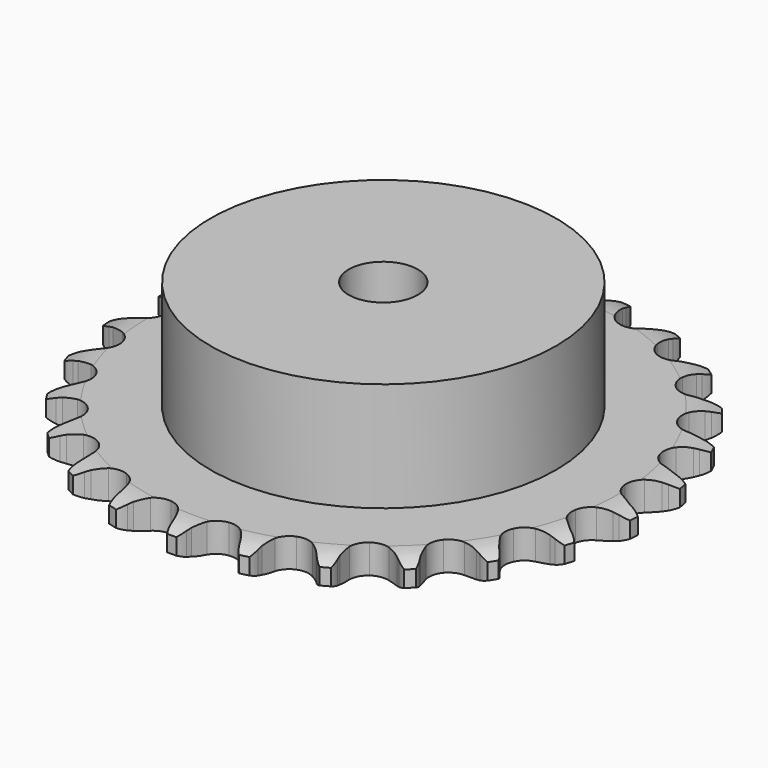
from build123d import *

# Parameters (mm, degrees)
PAD_DEPTH         = 5.9
SKETCH001_R       = 35
PAD001_DEPTH      = 28
SKETCH002_R       = 7
POCKET_DEPTH      = 0.0010001
POCKET_DEPTH_BACK = 28.001


with BuildPart() as part:
    # Sprocket → Pad (new body)
    with BuildSketch(Plane.XY):
        with BuildLine():
            ThreePointArc((-6.8599742768, 54.3022878853), (-5.6877263888, 53.1055977834), (-4.8697172128, 51.6437177271))
            Line((-4.8697172128, 51.6437177271), (-4.4929600157, 50.6940751819))
            ThreePointArc((-4.4929600157, 50.6940751819), (-3.8917444923, 49.438116684), (-3.1240156349, 48.2764436425))
            ThreePointArc((-3.1240156349, 48.2764436425), (-1.7423663811, 47.1395234725), (0, 46.7324589478))
            ThreePointArc((0, 46.7324589478), (1.7423663811, 47.1395234725), (3.1240156349, 48.2764436425))
            ThreePointArc((3.1240156349, 48.2764436425), (3.8917444923, 49.438116684), (4.4929600157, 50.6940751819))
            Line((4.4929600157, 50.6940751819), (4.8697172128, 51.6437177271))
            ThreePointArc((4.8697172128, 51.6437177271), (5.6877263888, 53.1055977834), (6.8599742768, 54.3022878853))
            ThreePointArc((6.8599742768, 54.3022878853), (7.6977891152, 52.8516678085), (8.1265442425, 51.2322847927))
            Line((8.1265442425, 51.2322847927), (8.2552984221, 50.2187813095))
            ThreePointArc((8.2552984221, 50.2187813095), (8.5252814772, 48.8527648367), (8.9799943831, 47.536661487))
            ThreePointArc((8.9799943831, 47.536661487), (10.0354960361, 46.0918575578), (11.6218899427, 45.264272815))
            ThreePointArc((11.6218899427, 45.264272815), (13.4107495107, 45.2252397603), (15.0317322612, 45.9828392955))
            Line((15.0317322612, 45.9828392955), (16.9589092518, 47.9840738708))
            ThreePointArc((16.9589092518, 47.9840738708), (17.2490341894, 48.4047106183), (17.5599964261, 48.8101859444))
            ThreePointArc((17.5599964261, 48.8101859444), (18.7158611259, 50.0227077408), (20.1488854172, 50.8902754276))
            ThreePointArc((20.1488854172, 50.8902754276), (20.5996242187, 49.2768731704), (20.6121850358, 47.6017389857))
            Line((20.6121850358, 47.6017389857), (20.4848460991, 46.5880567157))
            ThreePointArc((20.4848460991, 46.5880567157), (20.4066326576, 45.1978141068), (20.5197583279, 43.8099760627))
            ThreePointArc((20.5197583279, 43.8099760627), (21.1827913294, 42.1480707188), (22.5135337979, 40.9519659508))
            ThreePointArc((22.5135337979, 40.9519659508), (24.2364859271, 40.4692879073), (25.9949498667, 40.7999640426))
            Line((25.9949498667, 40.7999640426), (28.359267849, 42.2590567254))
            ThreePointArc((28.359267849, 42.2590567254), (28.7448860835, 42.5943272579), (29.1469164828, 42.9097306674))
            ThreePointArc((29.1469164828, 42.9097306674), (30.5680094763, 43.7967070002), (32.1717679845, 44.2806398035))
            ThreePointArc((32.1717679845, 44.2806398035), (32.2071091724, 42.6058313633), (31.8026864369, 40.9802008512))
            Line((31.8026864369, 40.9802008512), (31.4272555578, 40.0300331795))
            ThreePointArc((31.4272555578, 40.0300331795), (31.0057600578, 38.7029184907), (30.7701903906, 37.3305487206))
            ThreePointArc((30.7701903906, 37.3305487206), (30.9990939386, 35.5559655867), (31.9905695256, 34.0664964552))
            ThreePointArc((31.9905695256, 34.0664964552), (33.5393547973, 33.1705018594), (35.3248091694, 33.0534769971))
            Line((35.3248091694, 33.0534769971), (37.9777093492, 33.8787476279))
            ThreePointArc((37.9777093492, 33.8787476279), (38.4345910687, 34.1075856649), (38.9024285821, 34.3130992017))
            ThreePointArc((38.9024285821, 34.3130992017), (40.49945737, 34.8187980857), (42.1731800499, 34.8886887277))
            ThreePointArc((42.1731800499, 34.8886887277), (41.7909030073, 33.2577084784), (40.9949080871, 31.7837259826))
            Line((40.9949080871, 31.7837259826), (40.3949749684, 30.9567754386))
            ThreePointArc((40.3949749684, 30.9567754386), (39.6566815224, 29.7761761663), (39.0872182262, 28.5055057102))
            ThreePointArc((39.0872182262, 28.5055057102), (38.867609469, 26.7297483711), (39.457520117, 25.0405036995))
            ThreePointArc((39.457520117, 25.0405036995), (40.7348226564, 23.787491187), (42.4350807964, 23.2301184297))
            Line((42.4350807964, 23.2301184297), (45.2098716987, 23.3697122197))
            ThreePointArc((45.2098716987, 23.3697122197), (45.7093093444, 23.4777390257), (46.2135580203, 23.5604495184))
            ThreePointArc((46.2135580203, 23.5604495184), (47.8861754106, 23.653096033), (49.5246961106, 23.3045530275))
            ThreePointArc((49.5246961106, 23.3045530275), (48.7488207101, 21.8198814565), (47.6112688935, 20.5901627182))
            Line((47.6112688935, 20.5901627182), (46.8245295394, 19.9383896457))
            ThreePointArc((46.8245295394, 19.9383896457), (45.8158278398, 18.9784871844), (44.9482523879, 17.8893569401))
            ThreePointArc((44.9482523879, 17.8893569401), (44.2939301514, 16.2240027603), (44.4452096048, 14.4411240038))
            ThreePointArc((44.4452096048, 14.4411240038), (45.3707717957, 12.9098249592), (46.8790002316, 11.9471260869))
            Line((46.8790002316, 11.9471260869), (49.6013315392, 11.3922718449))
            ThreePointArc((49.6013315392, 11.3922718449), (50.111943607, 11.3726996984), (50.6209196466, 11.3274101426))
            ThreePointArc((50.6209196466, 11.3274101426), (52.2640289371, 11.0011829665), (53.7643933756, 10.2561065525))
            ThreePointArc((53.7643933756, 10.2561065525), (52.6436707221, 9.0110310348), (51.2360385733, 8.1028438048))
            Line((51.2360385733, 8.1028438048), (50.3119267108, 7.6672015032))
            ThreePointArc((50.3119267108, 7.6672015032), (49.0961971953, 6.9883100546), (47.9850225439, 6.149154081))
            ThreePointArc((47.9850225439, 6.149154081), (46.9371003006, 4.6988433883), (46.6402431151, 2.9343553762))
            ThreePointArc((46.6402431151, 2.9343553762), (47.1559084812, 1.2209869501), (48.3773396734, -0.0865481263))
            Line((48.3773396734, -0.0865481263), (50.8761572981, -1.3009868677))
            ThreePointArc((50.8761572981, -1.3009868677), (51.365860154, -1.4469281768), (51.8475827208, -1.6173720718))
            ThreePointArc((51.8475827208, -1.6173720718), (53.3579413118, -2.3419748853), (54.6258760732, -3.4367688166))
            ThreePointArc((54.6258760732, -3.4367688166), (53.2307252927, -4.3640156071), (51.6414595166, -4.893606585))
            Line((51.6414595166, -4.893606585), (50.6380404928, -5.0857451078))
            ThreePointArc((50.6380404928, -5.0857451078), (49.2916719178, -5.440968297), (48.006717257, -5.977422744))
            ThreePointArc((48.006717257, -5.977422744), (46.6310398154, -7.1215615949), (45.9046986196, -8.7567895915))
            ThreePointArc((45.9046986196, -8.7567895915), (45.9780660095, -10.5445701595), (46.8359529441, -12.1147842025))
            Line((46.8359529441, -12.1147842025), (48.9542469845, -13.9124997908))
            ThreePointArc((48.9542469845, -13.9124997908), (49.392270797, -14.1756402332), (49.8164714906, -14.4605288506))
            ThreePointArc((49.8164714906, -14.4605288506), (51.0991779972, -15.5379778419), (52.0550140772, -16.9136993613))
            ThreePointArc((52.0550140772, -16.9136993613), (50.4730976242, -17.4648550987), (48.8020576344, -17.5825736756))
            Line((48.8020576344, -17.5825736756), (47.7823799568, -17.5191356496))
            ThreePointArc((47.7823799568, -17.5191356496), (46.3899696116, -17.5283706001), (45.0119733684, -17.7284161146))
            ThreePointArc((45.0119733684, -17.7284161146), (43.3949796017, -18.4944926719), (42.2847930842, -19.8977132639))
            ThreePointArc((42.2847930842, -19.8977132639), (41.9112525549, -21.6475731458), (42.3516910407, -23.3818038322))
            Line((42.3516910407, -23.3818038322), (43.9563612918, -25.6498391854))
            ThreePointArc((43.9563612918, -25.6498391854), (44.3151834138, -26.0136446794), (44.6552081444, -26.3950774197))
            ThreePointArc((44.6552081444, -26.3950774197), (45.6296653993, -27.757672506), (46.2133441017, -29.327879971))
            ThreePointArc((46.2133441017, -29.327879971), (44.544059605, -29.4683135132), (42.8962429897, -29.166762998))
            Line((42.8962429897, -29.166762998), (41.9243767569, -28.8517344677))
            ThreePointArc((41.9243767569, -28.8517344677), (40.5734149043, -28.5144009136), (39.1889616507, -28.3654679002))
            ThreePointArc((39.1889616507, -28.3654679002), (37.432253224, -28.7053467562), (36.0079784868, -29.7883904333))
            ThreePointArc((36.0079784868, -29.7883904333), (35.2110009634, -31.3903794971), (35.2063166306, -33.1796587348))
            Line((35.2063166306, -33.1796587348), (36.1965357589, -35.7755048504))
            ThreePointArc((36.1965357589, -35.7755048504), (36.4536100768, -36.2171161589), (36.6880938402, -36.6711262001))
            ThreePointArc((36.6880938402, -36.6711262001), (37.2930731102, -38.2332505209), (37.4679197556, -39.8992820217))
            ThreePointArc((37.4679197556, -39.8992820217), (35.8161544992, -39.6201694128), (34.2950996365, -38.9182973334))
            Line((34.2950996365, -38.9182973334), (33.4321107783, -38.3714726999))
            ThreePointArc((33.4321107783, -38.3714726999), (32.20748332, -37.708766549), (30.9035633455, -37.2202130166))
            ThreePointArc((30.9035633455, -37.2202130166), (29.11752071, -37.1125383331), (27.4686501729, -37.8073534777))
            ThreePointArc((27.4686501729, -37.8073534777), (26.2983126845, -39.1608128589), (25.8487998669, -40.8927136529))
            Line((25.8487998669, -40.8927136529), (26.1623487627, -43.6532639726))
            ThreePointArc((26.1623487627, -43.6532639726), (26.3015223518, -44.1449330329), (26.4157316706, -44.6429932545))
            ThreePointArc((26.4157316706, -44.6429932545), (26.6132198833, -46.3064927936), (26.3682482139, -47.9636654437))
            ThreePointArc((26.3682482139, -47.9636654437), (24.8377886835, -47.2825443553), (23.5390690447, -46.2244519158))
            Line((23.5390690447, -46.2244519158), (22.8391823247, -45.4801901819))
            ThreePointArc((22.8391823247, -45.4801901819), (21.8178371079, -44.533751699), (20.6763805, -43.7362752629))
            ThreePointArc((20.6763805, -43.7362752629), (18.9732272831, -43.187812636), (17.203365546, -43.4507414574))
            ThreePointArc((17.203365546, -43.4507414574), (15.7332047011, -44.4706283254), (14.8671079422, -46.0363289793))
            Line((14.8671079422, -46.0363289793), (14.4842851754, -48.788127974))
            ThreePointArc((14.4842851754, -48.788127974), (14.4968132471, -49.2989614108), (14.4835719298, -49.8097768572))
            ThreePointArc((14.4835719298, -49.8097768572), (14.2611601746, -51.4701278207), (13.6117626612, -53.0143153678))
            ThreePointArc((13.6117626612, -53.0143153678), (12.298773258, -51.973983143), (11.3039921741, -50.6261541828))
            Line((11.3039921741, -50.6261541828), (10.8111840491, -49.7312200504))
            ThreePointArc((10.8111840491, -49.7312200504), (10.0572959499, -48.5605174461), (9.1500246252, -47.5042264837))
            ThreePointArc((9.1500246252, -47.5042264837), (7.6367762073, -46.5494378374), (5.8571301923, -46.3639595507))
            ThreePointArc((5.8571301923, -46.3639595507), (4.1795216037, -46.9861906626), (2.9512609482, -48.2873124461))
            Line((2.9512609482, -48.2873124461), (1.8961206811, -50.8574544645))
            ThreePointArc((1.8961206811, -50.8574544645), (1.7812160506, -51.3553547343), (1.6413560979, -51.8468289924))
            ThreePointArc((1.6413560979, -51.8468289924), (1.0130193231, -53.3997054229), (0, -54.7338808843))
            ThreePointArc((0, -54.7338808843), (-1.0130193231, -53.3997054229), (-1.6413560979, -51.8468289924))
            Line((-1.6413560979, -51.8468289924), (-1.8961206811, -50.8574544645))
            ThreePointArc((-1.8961206811, -50.8574544645), (-2.3351821008, -49.536047289), (-2.9512609482, -48.2873124461))
            ThreePointArc((-2.9512609482, -48.2873124461), (-4.1795216037, -46.9861906626), (-5.8571301923, -46.3639595507))
            ThreePointArc((-5.8571301923, -46.3639595507), (-7.6367762073, -46.5494378374), (-9.1500246252, -47.5042264837))
            Line((-9.1500246252, -47.5042264837), (-10.8111840491, -49.7312200504))
            ThreePointArc((-10.8111840491, -49.7312200504), (-11.0463015013, -50.1849022481), (-11.3039921741, -50.6261541828))
            ThreePointArc((-11.3039921741, -50.6261541828), (-12.298773258, -51.973983143), (-13.6117626612, -53.0143153678))
            ThreePointArc((-13.6117626612, -53.0143153678), (-14.2611601746, -51.4701278207), (-14.4835719298, -49.8097768572))
            Line((-14.4835719298, -49.8097768572), (-14.4842851754, -48.788127974))
            ThreePointArc((-14.4842851754, -48.788127974), (-14.5809320719, -47.3990450998), (-14.8671079422, -46.0363289793))
            ThreePointArc((-14.8671079422, -46.0363289793), (-15.7332047011, -44.4706283254), (-17.203365546, -43.4507414574))
            ThreePointArc((-17.203365546, -43.4507414574), (-18.9732272831, -43.187812636), (-20.6763805, -43.7362752629))
            Line((-20.6763805, -43.7362752629), (-22.8391823247, -45.4801901819))
            ThreePointArc((-22.8391823247, -45.4801901819), (-23.1797393043, -45.8611477864), (-23.5390690447, -46.2244519158))
            ThreePointArc((-23.5390690447, -46.2244519158), (-24.8377886835, -47.2825443553), (-26.3682482139, -47.9636654437))
            ThreePointArc((-26.3682482139, -47.9636654437), (-26.6132198833, -46.3064927936), (-26.4157316706, -44.6429932545))
            Line((-26.4157316706, -44.6429932545), (-26.1623487627, -43.6532639726))
            ThreePointArc((-26.1623487627, -43.6532639726), (-25.910508456, -42.2837865855), (-25.8487998669, -40.8927136529))
            ThreePointArc((-25.8487998669, -40.8927136529), (-26.2983126845, -39.1608128589), (-27.4686501729, -37.8073534777))
            ThreePointArc((-27.4686501729, -37.8073534777), (-29.11752071, -37.1125383331), (-30.9035633455, -37.2202130166))
            Line((-30.9035633455, -37.2202130166), (-33.4321107783, -38.3714726999))
            ThreePointArc((-33.4321107783, -38.3714726999), (-33.8567088378, -38.6557687439), (-34.2950996365, -38.9182973334))
            ThreePointArc((-34.2950996365, -38.9182973334), (-35.8161544992, -39.6201694128), (-37.4679197556, -39.8992820217))
            ThreePointArc((-37.4679197556, -39.8992820217), (-37.2930731102, -38.2332505209), (-36.6880938402, -36.6711262001))
            Line((-36.6880938402, -36.6711262001), (-36.1965357589, -35.7755048504))
            ThreePointArc((-36.1965357589, -35.7755048504), (-35.6120323016, -34.5116822512), (-35.2063166306, -33.1796587348))
            ThreePointArc((-35.2063166306, -33.1796587348), (-35.2110009634, -31.3903794971), (-36.0079784868, -29.7883904333))
            ThreePointArc((-36.0079784868, -29.7883904333), (-37.432253224, -28.7053467562), (-39.1889616507, -28.3654679002))
            Line((-39.1889616507, -28.3654679002), (-41.9243767569, -28.8517344677))
            ThreePointArc((-41.9243767569, -28.8517344677), (-42.4063368387, -29.0215055851), (-42.8962429897, -29.166762998))
            ThreePointArc((-42.8962429897, -29.166762998), (-44.544059605, -29.4683135132), (-46.2133441017, -29.327879971))
            ThreePointArc((-46.2133441017, -29.327879971), (-45.6296653993, -27.757672506), (-44.6552081444, -26.3950774197))
            Line((-44.6552081444, -26.3950774197), (-43.9563612918, -25.6498391854))
            ThreePointArc((-43.9563612918, -25.6498391854), (-43.0759211858, -24.5710819959), (-42.3516910407, -23.3818038322))
            ThreePointArc((-42.3516910407, -23.3818038322), (-41.9112525549, -21.6475731458), (-42.2847930842, -19.8977132639))
            ThreePointArc((-42.2847930842, -19.8977132639), (-43.3949796017, -18.4944926719), (-45.0119733684, -17.7284161146))
            Line((-45.0119733684, -17.7284161146), (-47.7823799568, -17.5191356496))
            ThreePointArc((-47.7823799568, -17.5191356496), (-48.2914187364, -17.5637144969), (-48.8020576344, -17.5825736756))
            ThreePointArc((-48.8020576344, -17.5825736756), (-50.4730976242, -17.4648550987), (-52.0550140772, -16.9136993613))
            ThreePointArc((-52.0550140772, -16.9136993613), (-51.0991779972, -15.5379778419), (-49.8164714906, -14.4605288506))
            Line((-49.8164714906, -14.4605288506), (-48.9542469845, -13.9124997908))
            ThreePointArc((-48.9542469845, -13.9124997908), (-47.8331915198, -13.0865902928), (-46.8359529441, -12.1147842025))
            ThreePointArc((-46.8359529441, -12.1147842025), (-45.9780660095, -10.5445701595), (-45.9046986196, -8.7567895915))
            ThreePointArc((-45.9046986196, -8.7567895915), (-46.6310398154, -7.1215615949), (-48.006717257, -5.977422744))
            Line((-48.006717257, -5.977422744), (-50.6380404928, -5.0857451078))
            ThreePointArc((-50.6380404928, -5.0857451078), (-51.1421731915, -5.002330632), (-51.6414595166, -4.893606585))
            ThreePointArc((-51.6414595166, -4.893606585), (-53.2307252927, -4.3640156071), (-54.6258760732, -3.4367688166))
            ThreePointArc((-54.6258760732, -3.4367688166), (-53.3579413118, -2.3419748853), (-51.8475827208, -1.6173720718))
            Line((-51.8475827208, -1.6173720718), (-50.8761572981, -1.3009868677))
            ThreePointArc((-50.8761572981, -1.3009868677), (-49.5849265124, -0.7798199924), (-48.3773396734, -0.0865481263))
            ThreePointArc((-48.3773396734, -0.0865481263), (-47.1559084812, 1.2209869501), (-46.6402431151, 2.9343553762))
            ThreePointArc((-46.6402431151, 2.9343553762), (-46.9371003006, 4.6988433883), (-47.9850225439, 6.149154081))
            Line((-47.9850225439, 6.149154081), (-50.3119267108, 7.6672015032))
            ThreePointArc((-50.3119267108, 7.6672015032), (-50.7794768173, 7.8733680638), (-51.2360385733, 8.1028438048))
            ThreePointArc((-51.2360385733, 8.1028438048), (-52.6436707221, 9.0110310348), (-53.7643933756, 10.2561065525))
            ThreePointArc((-53.7643933756, 10.2561065525), (-52.2640289371, 11.0011829665), (-50.6209196466, 11.3274101426))
            Line((-50.6209196466, 11.3274101426), (-49.6013315392, 11.3922718449))
            ThreePointArc((-49.6013315392, 11.3922718449), (-48.2210582116, 11.5759492661), (-46.8790002316, 11.9471260869))
            ThreePointArc((-46.8790002316, 11.9471260869), (-45.3707717957, 12.9098249592), (-44.4452096048, 14.4411240038))
            ThreePointArc((-44.4452096048, 14.4411240038), (-44.2939301514, 16.2240027603), (-44.9482523879, 17.8893569401))
            Line((-44.9482523879, 17.8893569401), (-46.8245295394, 19.9383896457))
            ThreePointArc((-46.8245295394, 19.9383896457), (-47.2261191607, 20.254354088), (-47.6112688935, 20.5901627182))
            ThreePointArc((-47.6112688935, 20.5901627182), (-48.7488207101, 21.8198814565), (-49.5246961106, 23.3045530275))
            ThreePointArc((-49.5246961106, 23.3045530275), (-47.8861754106, 23.653096033), (-46.2135580203, 23.5604495184))
            Line((-46.2135580203, 23.5604495184), (-45.2098716987, 23.3697122197))
            ThreePointArc((-45.2098716987, 23.3697122197), (-43.8272834787, 23.2043590589), (-42.4350807964, 23.2301184297))
            ThreePointArc((-42.4350807964, 23.2301184297), (-40.7348226564, 23.787491187), (-39.457520117, 25.0405036995))
            ThreePointArc((-39.457520117, 25.0405036995), (-38.867609469, 26.7297483711), (-39.0872182262, 28.5055057102))
            Line((-39.0872182262, 28.5055057102), (-40.3949749684, 30.9567754386))
            ThreePointArc((-40.3949749684, 30.9567754386), (-40.7053707518, 31.3626845545), (-40.9949080871, 31.7837259826))
            ThreePointArc((-40.9949080871, 31.7837259826), (-41.7909030073, 33.2577084784), (-42.1731800499, 34.8886887277))
            ThreePointArc((-42.1731800499, 34.8886887277), (-40.49945737, 34.8187980857), (-38.9024285821, 34.3130992017))
            Line((-38.9024285821, 34.3130992017), (-37.9777093492, 33.8787476279))
            ThreePointArc((-37.9777093492, 33.8787476279), (-36.6796793394, 33.3747536323), (-35.3248091694, 33.0534769971))
            ThreePointArc((-35.3248091694, 33.0534769971), (-33.5393547973, 33.1705018594), (-31.9905695256, 34.0664964552))
            ThreePointArc((-31.9905695256, 34.0664964552), (-30.9990939386, 35.5559655867), (-30.7701903906, 37.3305487206))
            Line((-30.7701903906, 37.3305487206), (-31.4272555578, 40.0300331795))
            ThreePointArc((-31.4272555578, 40.0300331795), (-31.6269541946, 40.5003822065), (-31.8026864369, 40.9802008512))
            ThreePointArc((-31.8026864369, 40.9802008512), (-32.2071091724, 42.6058313633), (-32.1717679845, 44.2806398035))
            ThreePointArc((-32.1717679845, 44.2806398035), (-30.5680094763, 43.7967070002), (-29.1469164828, 42.9097306674))
            Line((-29.1469164828, 42.9097306674), (-28.359267849, 42.2590567254))
            ThreePointArc((-28.359267849, 42.2590567254), (-27.2273560488, 41.4480896912), (-25.9949498667, 40.7999640426))
            ThreePointArc((-25.9949498667, 40.7999640426), (-24.2364859271, 40.4692879073), (-22.5135337979, 40.9519659508))
            ThreePointArc((-22.5135337979, 40.9519659508), (-21.1827913294, 42.1480707188), (-20.5197583279, 43.8099760627))
            Line((-20.5197583279, 43.8099760627), (-20.4848460991, 46.5880567157))
            ThreePointArc((-20.4848460991, 46.5880567157), (-20.5612997896, 47.0932918945), (-20.6121850358, 47.6017389857))
            ThreePointArc((-20.6121850358, 47.6017389857), (-20.5996242187, 49.2768731704), (-20.1488854172, 50.8902754276))
            ThreePointArc((-20.1488854172, 50.8902754276), (-18.7158611259, 50.0227077408), (-17.5599964261, 48.8101859444))
            Line((-17.5599964261, 48.8101859444), (-16.9589092518, 47.9840738708))
            ThreePointArc((-16.9589092518, 47.9840738708), (-16.0642378424, 46.9170898394), (-15.0317322612, 45.9828392955))
            ThreePointArc((-15.0317322612, 45.9828392955), (-13.4107495107, 45.2252397603), (-11.6218899427, 45.264272815))
            ThreePointArc((-11.6218899427, 45.264272815), (-10.0354960361, 46.0918575578), (-8.9799943831, 47.536661487))
            Line((-8.9799943831, 47.536661487), (-8.2552984221, 50.2187813095))
            ThreePointArc((-8.2552984221, 50.2187813095), (-8.2037032997, 50.7271568558), (-8.1265442425, 51.2322847927))
            ThreePointArc((-8.1265442425, 51.2322847927), (-7.6977891152, 52.8516678085), (-6.8599742768, 54.3022878853))
        make_face()
    extrude(amount=PAD_DEPTH)

    # Sketch → Groove (revolve, cut)
    with BuildSketch(Plane.XZ):
        with BuildLine():
            Line((47.8834313734, 0), (53.55, 0))
            Line((59.2165686266, 0), (53.55, 0))
            Line((59.2165686266, 5.9), (59.2165686266, 0))
            Line((53.55, 5.9), (59.2165686266, 5.9))
            Line((47.8834313734, 5.9), (53.55, 5.9))
            ThreePointArc((53.55, 4.6), (50.7903197441, 5.5708326483), (47.8834313734, 5.9))
            Line((53.55, 1.3), (53.55, 4.6))
            ThreePointArc((47.8834313734, 0), (50.7903197441, 0.3291673517), (53.55, 1.3))
        make_face()
    revolve(axis=Axis((0, 0, 0), (0, 0, 1)), mode=Mode.SUBTRACT)

    # Sketch001 → Pad001 (join)
    with BuildSketch(Plane.XY):
        Circle(SKETCH001_R)
    extrude(amount=PAD001_DEPTH)

    # Sketch002 → Pocket (cut, two sides)
    with BuildSketch(Plane.XY) as pocket_sk:
        Circle(SKETCH002_R)
    extrude(amount=-POCKET_DEPTH, mode=Mode.SUBTRACT)
    extrude(pocket_sk.sketch, amount=POCKET_DEPTH_BACK, mode=Mode.SUBTRACT)


solid = part.part
